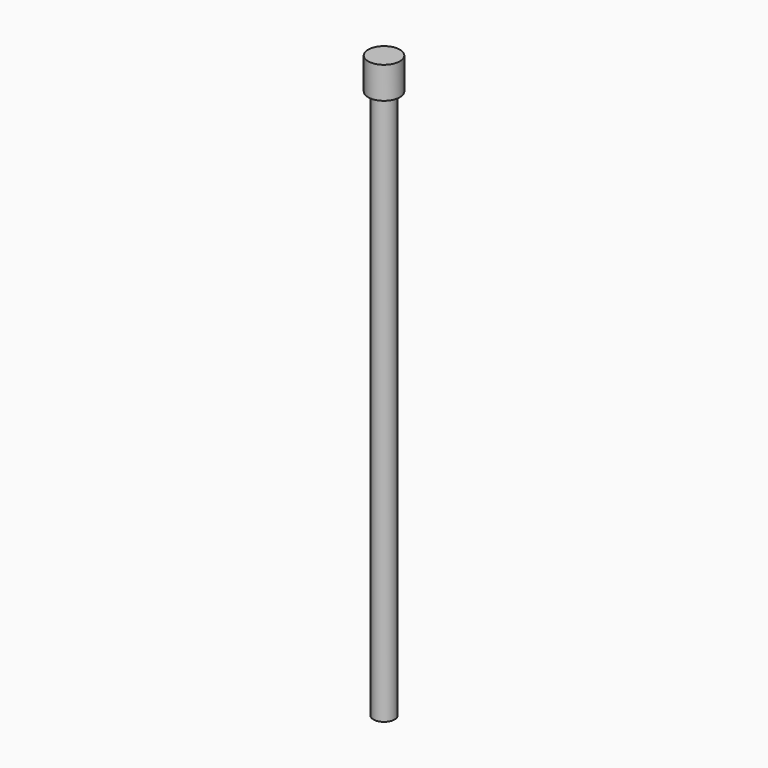
from build123d import *

# Parameters (mm, degrees)
F0_R     = 1
F1_DEPTH = 52
F2_R     = 1.5
F2_R_2   = 1
F3_DEPTH = 3


with BuildPart() as f1:
    # F0 (on Top) → F1 (new body)
    with BuildSketch(Plane.XY):
        Circle(F0_R)
    extrude(amount=F1_DEPTH)

    # F2 (on face) → F3 (join)
    with BuildSketch(Plane.XY.offset(52)):
        Circle(F2_R)
        Circle(F2_R_2, mode=Mode.SUBTRACT)
        Circle(F2_R_2)
    extrude(amount=F3_DEPTH)


solid = f1.part
